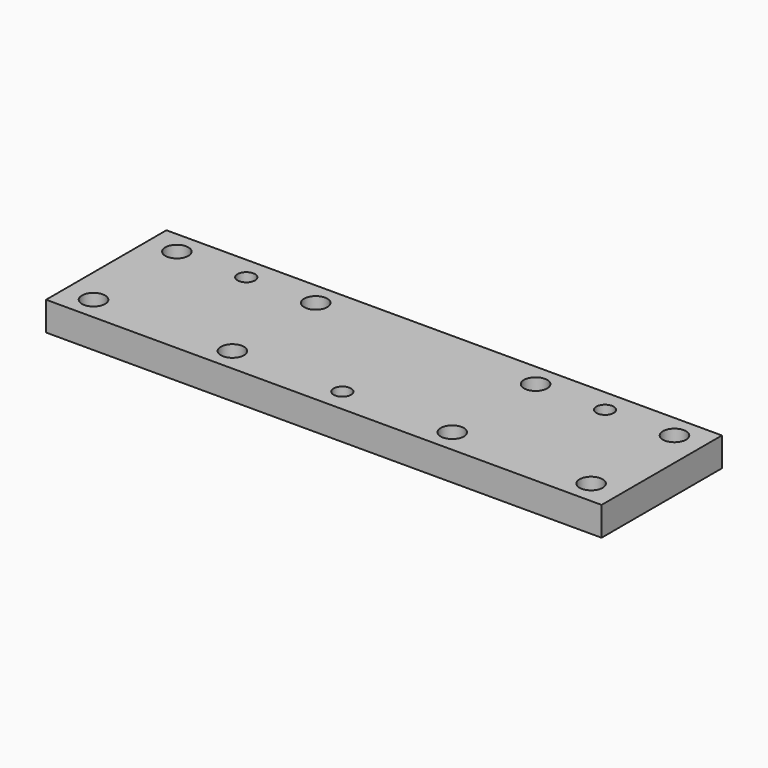
from build123d import *

# Parameters (mm, degrees)
F0_W     = 96
F0_H     = 26
F1_DEPTH = 5
F3_D     = 4
F5_D     = 3


with BuildPart() as f1:
    # F0 (on Top) → F1 (new body)
    with BuildSketch(Plane.XY):
        Rectangle(F0_W, F0_H)
    extrude(amount=F1_DEPTH)

    # F3 (through all)
    with Locations(Plane.XY.offset(5)):
        with Locations((-43, 9), (-19, 9), (19, 9), (43, 9), (43, -9), (19, -9), (-19, -9), (-43, -9)):
            Hole(F3_D / 2)

    # F5 (through all)
    with Locations(Plane.XY.offset(5)):
        with Locations((-31, 9), (0, -9), (31, 9)):
            Hole(F5_D / 2)


solid = f1.part
